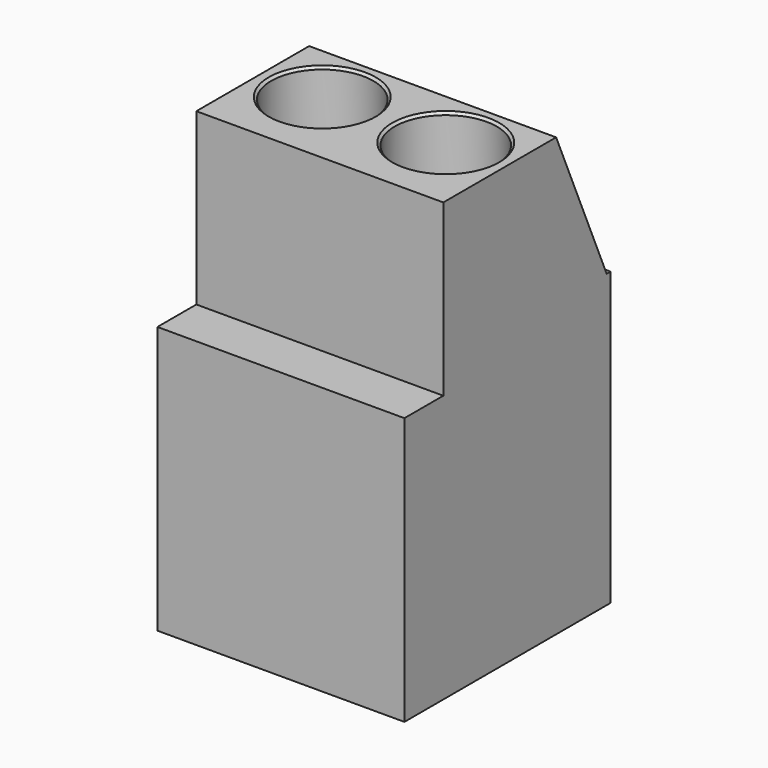
from build123d import *

# Parameters (mm, degrees)
PAD_DEPTH       = 10.16
SKETCH001_R     = 2.1
POCKET_DEPTH    = 3
SKETCH002_W     = 5.4
SKETCH002_H     = 2.8
POCKET001_DEPTH = 8
CHAMFER_SIZE    = 0.8
CHAMFER001_SIZE = 0.1


with BuildPart() as part:
    # Sketch → Pad (new body)
    with BuildSketch(Plane.YZ):
        Polygon((-5.3, 0), (5.3, 0), (5.3, 12), (5.1, 12), (2.5, 18), (-3.3, 18), (-3.3, 11), (-5.3, 11), align=None)
    extrude(amount=PAD_DEPTH)

    # Sketch001 (on Face5 of Pad) → Pocket (cut)
    with BuildSketch(Plane(origin=(0, 0, 18), x_dir=(0, -1, 0), z_dir=(0, 0, 1))):
        with Locations((0, 2.54)):
            Circle(SKETCH001_R)
        with Locations((0, 7.62)):
            Circle(SKETCH001_R)
    extrude(amount=-POCKET_DEPTH, mode=Mode.SUBTRACT)

    # Sketch002 (on Face3 of Pocket) → Pocket001 (cut)
    with BuildSketch(Plane.ZX.offset(5.3)):
        with Locations((6.2, 7.62)):
            Rectangle(SKETCH002_W, SKETCH002_H)
        with Locations((6.2, 2.54)):
            Rectangle(SKETCH002_W, SKETCH002_H)
    extrude(amount=-POCKET001_DEPTH, mode=Mode.SUBTRACT)

    # Chamfer
    chamfer_edges = [part.edges().sort_by_distance(p)[0] for p in [
        (6.22, 5.3, 6.2),
        (7.62, 5.3, 8.9),
        (9.02, 5.3, 6.2),
        (7.62, 5.3, 3.5),
        (3.94, 5.3, 6.2),
        (2.54, 5.3, 8.9),
        (1.14, 5.3, 6.2),
        (2.54, 5.3, 3.5),
    ]]
    chamfer(chamfer_edges, length=CHAMFER_SIZE)

    # Chamfer001
    chamfer001_edges = [part.edges().sort_by_distance(p)[0] for p in [
        (7.62, 2.1, 18),
        (2.54, 2.1, 18),
    ]]
    chamfer(chamfer001_edges, length=CHAMFER001_SIZE)


solid = part.part
